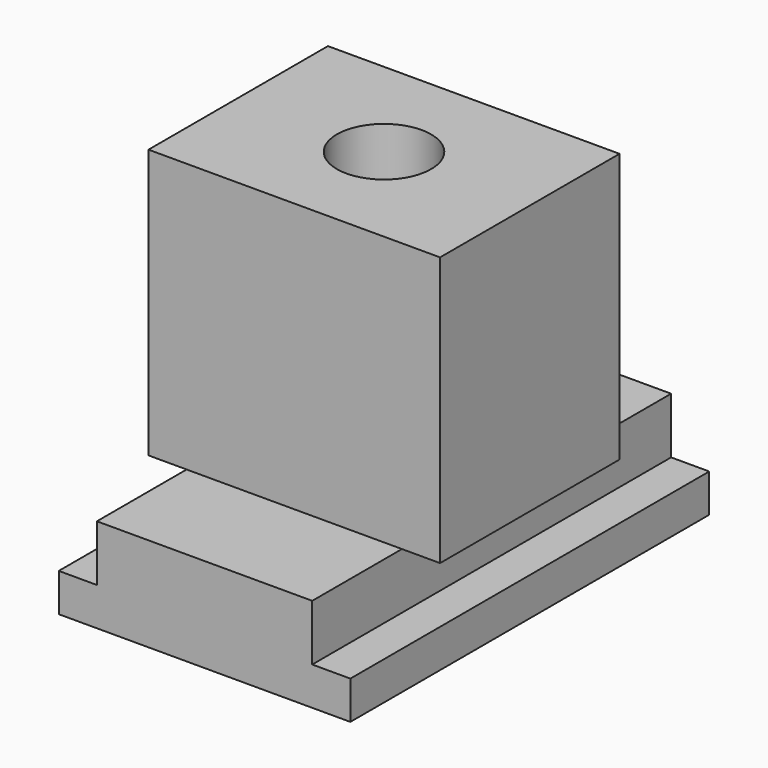
from build123d import *

# Parameters (mm, degrees)
F1_DEPTH      = 20
F3_W          = 13
F3_H          = 12
F4_DEPTH      = 5
F4_DEPTH_BACK = 5
F6_D          = 4.2
F6_DEPTH      = 22.4
F6_TIP        = 1.2618073


with BuildPart() as f1:
    # F0 (on Front) → F1 (new body)
    with BuildSketch(Plane.XZ):
        Polygon((-6.5, 0), (0, 0), (6.5, 0), (6.5, 1.7), (4.8, 1.7), (4.8, 4.2), (0, 4.2), (-4.8, 4.2), (-4.8, 1.7), (-6.5, 1.7), align=None)
    extrude(amount=-F1_DEPTH)

    # F3 (on offset) → F4 (join, two sides)
    with BuildSketch(Plane.XZ.offset(-10)) as f4_sk:
        with Locations((0, 10.2)):
            Rectangle(F3_W, F3_H)
    extrude(amount=F4_DEPTH)
    extrude(f4_sk.sketch, amount=-F4_DEPTH_BACK)

    # F6
    with Locations(Plane.XY.offset(16.2)):
        with Locations((0, 10)):
            Hole(F6_D / 2, depth=F6_DEPTH)
            with Locations((0, 0, -(F6_DEPTH + F6_TIP / 2))):  # 118° drill point
                Cone(0, F6_D / 2, F6_TIP, mode=Mode.SUBTRACT)


solid = f1.part
